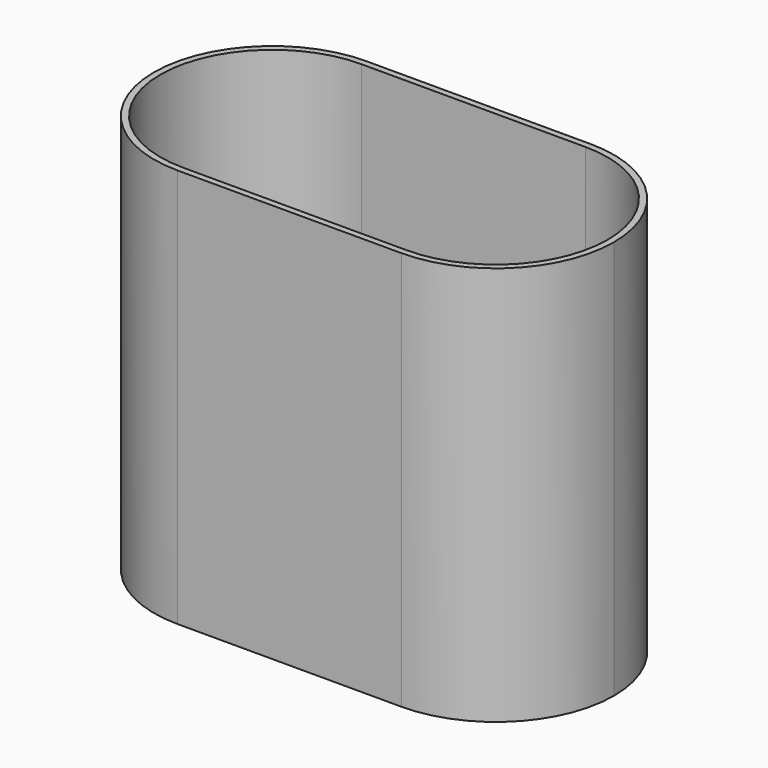
from build123d import *

# Parameters (mm, degrees)
F1_DEPTH = 25
F2_DEPTH = 0.6
F3_R     = 0.5


with BuildPart() as f1:
    # F0 (on Top) → F1 (new body)
    with BuildSketch(Plane.XY):
        with BuildLine():
            ThreePointArc((0, -7), (-7, 0), (0, 7))
            Line((0, 7), (2.4, 7))
            ThreePointArc((2.4, 7), (1.2165525061, 7.2993150364), (0, 7.4))
            ThreePointArc((0, 7.4), (-7.4, 0), (0, -7.4))
            ThreePointArc((0, -7.4), (1.2165525061, -7.2993150364), (2.4, -7))
            Line((2.4, -7), (0, -7))
        make_face()
        with BuildLine():
            ThreePointArc((0, 7.4), (1.2165525061, 7.2993150364), (2.4, 7))
            Line((2.4, 7), (11.6, 7))
            ThreePointArc((11.6, 7), (12.7834474939, 7.2993150364), (14, 7.4))
            Line((14, 7.4), (0, 7.4))
        make_face()
        with BuildLine():
            ThreePointArc((14, 7.4), (12.7834474939, 7.2993150364), (11.6, 7))
            Line((11.6, 7), (14, 7))
            ThreePointArc((14, 7), (18.9497474683, 4.9497474683), (21, 0))
            ThreePointArc((21, 0), (18.9497474683, -4.9497474683), (14, -7))
            Line((14, -7), (11.6, -7))
            ThreePointArc((11.6, -7), (12.7834474939, -7.2993150364), (14, -7.4))
            ThreePointArc((14, -7.4), (19.2325901808, -5.2325901808), (21.4, 0))
            ThreePointArc((21.4, 0), (19.2325901808, 5.2325901808), (14, 7.4))
        make_face()
        with BuildLine():
            Line((11.6, -7), (2.4, -7))
            ThreePointArc((2.4, -7), (1.2165525061, -7.2993150364), (0, -7.4))
            Line((0, -7.4), (14, -7.4))
            ThreePointArc((14, -7.4), (12.7834474939, -7.2993150364), (11.6, -7))
        make_face()
    extrude(amount=F1_DEPTH)

    # F0 (on Top) → F2 (join)
    with BuildSketch(Plane.XY):
        with BuildLine():
            ThreePointArc((6.7942857143, 1.6845419652), (4.3132473986, 5.5132473986), (0, 7))
            ThreePointArc((0, 7), (-7, 0), (0, -7))
            ThreePointArc((0, -7), (4.3132473986, -5.5132473986), (6.7942857143, -1.6845419652))
            ThreePointArc((6.7942857143, -1.6845419652), (6.6, 0), (6.7942857143, 1.6845419652))
        make_face()
        with BuildLine():
            ThreePointArc((7, -2.4), (5.2325901808, -5.2325901808), (2.4, -7))
            Line((2.4, -7), (11.6, -7))
            ThreePointArc((11.6, -7), (8.7674098192, -5.2325901808), (7, -2.4))
        make_face()
        with BuildLine():
            ThreePointArc((14, 7), (9.6867526014, 5.5132473986), (7.2057142857, 1.6845419652))
            ThreePointArc((7.2057142857, 1.6845419652), (7.3512681122, 0.8478544349), (7.4, 0))
            ThreePointArc((7.4, 0), (7.3512681122, -0.8478544349), (7.2057142857, -1.6845419652))
            ThreePointArc((7.2057142857, -1.6845419652), (9.6867526014, -5.5132473986), (14, -7))
            ThreePointArc((14, -7), (18.9497474683, -4.9497474683), (21, 0))
            ThreePointArc((21, 0), (18.9497474683, 4.9497474683), (14, 7))
        make_face()
        with BuildLine():
            ThreePointArc((6.7942857143, -1.6845419652), (4.3132473986, -5.5132473986), (0, -7))
            Line((0, -7), (2.4, -7))
            ThreePointArc((2.4, -7), (5.2325901808, -5.2325901808), (7, -2.4))
            ThreePointArc((7, -2.4), (6.8881402122, -2.044859496), (6.7942857143, -1.6845419652))
        make_face()
        with BuildLine():
            ThreePointArc((7.2057142857, -1.6845419652), (7.1118597878, -2.044859496), (7, -2.4))
            ThreePointArc((7, -2.4), (8.7674098192, -5.2325901808), (11.6, -7))
            Line((11.6, -7), (14, -7))
            ThreePointArc((14, -7), (9.6867526014, -5.5132473986), (7.2057142857, -1.6845419652))
        make_face()
        with BuildLine():
            ThreePointArc((7, 0), (6.9483811064, -0.8485281374), (6.7942857143, -1.6845419652))
            ThreePointArc((6.7942857143, -1.6845419652), (6.8881402122, -2.044859496), (7, -2.4))
            ThreePointArc((7, -2.4), (7.1118597878, -2.044859496), (7.2057142857, -1.6845419652))
            ThreePointArc((7.2057142857, -1.6845419652), (7.0516188936, -0.8485281374), (7, 0))
        make_face()
        with BuildLine():
            ThreePointArc((7.2057142857, 1.6845419652), (7.0516188936, 0.8485281374), (7, 0))
            ThreePointArc((7, 0), (7.0516188936, -0.8485281374), (7.2057142857, -1.6845419652))
            ThreePointArc((7.2057142857, -1.6845419652), (7.3512681122, -0.8478544349), (7.4, 0))
            ThreePointArc((7.4, 0), (7.3512681122, 0.8478544349), (7.2057142857, 1.6845419652))
        make_face()
        with BuildLine():
            ThreePointArc((7, 0), (6.9483811064, 0.8485281374), (6.7942857143, 1.6845419652))
            ThreePointArc((6.7942857143, 1.6845419652), (6.6, 0), (6.7942857143, -1.6845419652))
            ThreePointArc((6.7942857143, -1.6845419652), (6.9483811064, -0.8485281374), (7, 0))
        make_face()
        with BuildLine():
            Line((2.4, 7), (0, 7))
            ThreePointArc((0, 7), (4.3132473986, 5.5132473986), (6.7942857143, 1.6845419652))
            ThreePointArc((6.7942857143, 1.6845419652), (6.8881402122, 2.044859496), (7, 2.4))
            ThreePointArc((7, 2.4), (5.2325901808, 5.2325901808), (2.4, 7))
        make_face()
        with BuildLine():
            ThreePointArc((11.6, 7), (8.7674098192, 5.2325901808), (7, 2.4))
            ThreePointArc((7, 2.4), (7.1118597878, 2.044859496), (7.2057142857, 1.6845419652))
            ThreePointArc((7.2057142857, 1.6845419652), (9.6867526014, 5.5132473986), (14, 7))
            Line((14, 7), (11.6, 7))
        make_face()
        with BuildLine():
            ThreePointArc((7, 2.4), (6.8881402122, 2.044859496), (6.7942857143, 1.6845419652))
            ThreePointArc((6.7942857143, 1.6845419652), (6.9483811064, 0.8485281374), (7, 0))
            ThreePointArc((7, 0), (7.0516188936, 0.8485281374), (7.2057142857, 1.6845419652))
            ThreePointArc((7.2057142857, 1.6845419652), (7.1118597878, 2.044859496), (7, 2.4))
        make_face()
        with BuildLine():
            Line((11.6, 7), (2.4, 7))
            ThreePointArc((2.4, 7), (5.2325901808, 5.2325901808), (7, 2.4))
            ThreePointArc((7, 2.4), (8.7674098192, 5.2325901808), (11.6, 7))
        make_face()
    extrude(amount=F2_DEPTH)

    # F3
    f3_edges = [f1.edges().sort_by_distance(p)[0] for p in [
        (-7, 0, 0.6),
        (7, -7, 0.6),
        (21, 0, 0.6),
        (7, 7, 0.6),
    ]]
    fillet(f3_edges, radius=F3_R)


solid = f1.part
